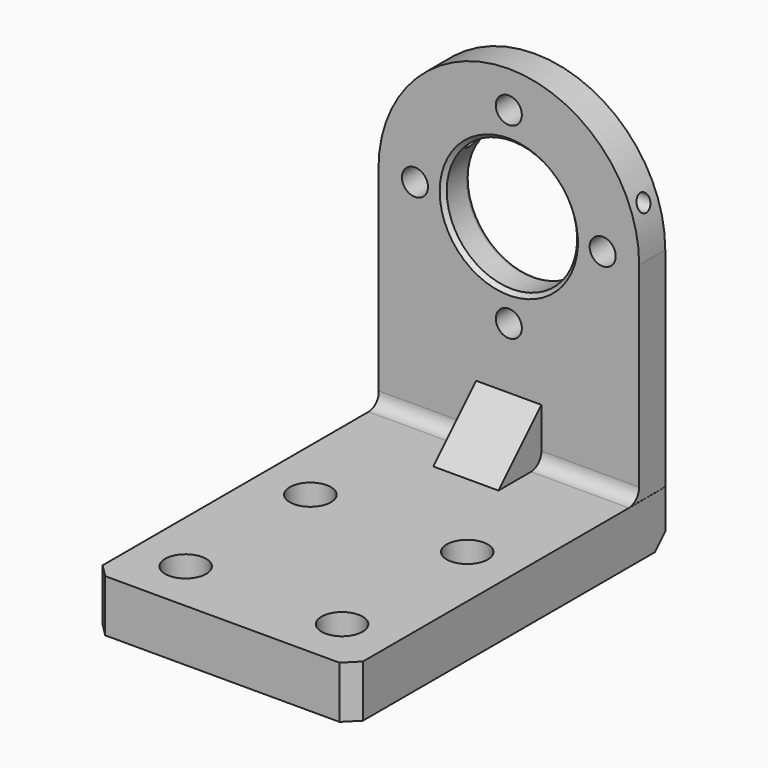
from build123d import *

# Parameters (mm, degrees)
F0_R           = 10
F1_DEPTH       = 25
F2_D           = 20
F3_W           = 199.7033953667
F3_H           = 40
F4_DEPTH       = 300
F6_DEPTH       = 25
F8_D           = 17.5
F8_CBORE_D     = 31.5
F8_CBORE_DEPTH = 20
F9_SIZE        = 10
F10_SIZE       = 3
F11_R          = 3
F12_R          = 10
F14_D          = 12.1
F15_SIZE       = 10


with BuildPart() as f1:
    # F0 (on Front) → F1 (new body)
    with BuildSketch(Plane.XZ):
        with BuildLine():
            Line((-100, 200), (-100, 0))
            Line((-100, 0), (100, 0))
            Line((100, 0), (100, 200))
            Line((100, 200), (82, 200))
            ThreePointArc((82, 200), (72, 190), (62, 200))
            Line((62, 200), (50, 200))
            ThreePointArc((50, 200), (0, 150), (-50, 200))
            Line((-50, 200), (-62, 200))
            ThreePointArc((-62, 200), (-72, 190), (-82, 200))
            Line((-82, 200), (-100, 200))
        make_face()
        with Locations((0, 128)):
            Circle(F0_R, mode=Mode.SUBTRACT)
        with BuildLine():
            ThreePointArc((100, 200), (0, 300), (-100, 200))
            Line((-100, 200), (-82, 200))
            ThreePointArc((-82, 200), (-72, 210), (-62, 200))
            Line((-62, 200), (-50, 200))
            ThreePointArc((-50, 200), (0, 250), (50, 200))
            Line((50, 200), (62, 200))
            ThreePointArc((62, 200), (72, 210), (82, 200))
            Line((82, 200), (100, 200))
        make_face()
        with Locations((0, 272)):
            Circle(F0_R, mode=Mode.SUBTRACT)
        with BuildLine():
            ThreePointArc((62, 200), (72, 190), (82, 200))
            Line((82, 200), (62, 200))
        make_face()
        with BuildLine():
            Line((62, 200), (82, 200))
            ThreePointArc((82, 200), (72, 210), (62, 200))
        make_face()
        with BuildLine():
            ThreePointArc((-62, 200), (-72, 210), (-82, 200))
            Line((-82, 200), (-62, 200))
        make_face()
        with BuildLine():
            Line((-62, 200), (-82, 200))
            ThreePointArc((-82, 200), (-72, 190), (-62, 200))
        make_face()
        with Locations((0, 272)):
            Circle(F0_R)
        with Locations((0, 128)):
            Circle(F0_R)
    extrude(amount=F1_DEPTH)

    # F2 (through all)
    with Locations(Plane(origin=(0, 0, 0), x_dir=(1, 0, 0), z_dir=(0, 1, 0))):
        with Locations((0, -272), (72, -200), (0, -128), (-72, -200)):
            Hole(F2_D / 2)

    # F3 (on Front) → F4 (join)
    with BuildSketch(Plane.XZ):
        with Locations((0.2531558275, 20)):
            Rectangle(F3_W, F3_H)
    extrude(amount=F4_DEPTH)

    # F5 (on Right) → F6 (join, symmetric)
    with BuildSketch(Plane.YZ):
        Polygon((-66.1523267627, 40), (-25, 40), (-25, 81.1523267627), align=None)
    extrude(amount=F6_DEPTH, both=True)

    # F8 (through all)
    with Locations(Plane.XY.offset(40)):
        with Locations((-59.6462091353, -140.7010122926), (60.1048535109, -140), (60.1048535109, -260), (-59.8951464891, -260)):
            CounterBoreHole(F8_D / 2, F8_CBORE_D / 2, F8_CBORE_DEPTH)

    # F9
    f9_edges = [f1.edges().sort_by_distance(p)[0] for p in [
        (-99.598542, -300, 20),
        (100.104854, -300, 20),
    ]]
    chamfer(f9_edges, length=F9_SIZE)

    # F10
    f10_edges = [f1.edges().sort_by_distance(p)[0] for p in [
        (50, -25, 200),
    ]]
    chamfer(f10_edges, length=F10_SIZE)

    # F11
    f11_edges = [f1.edges().sort_by_distance(p)[0] for p in [
        (50, 0, 200),
    ]]
    fillet(f11_edges, radius=F11_R)

    # F12
    f12_edges = [f1.edges().sort_by_distance(p)[0] for p in [
        (-62.299271, -25, 40),
        (62.5, -25, 40),
    ]]
    fillet(f12_edges, radius=F12_R)

    # F14 (through all)
    with Locations(Plane(origin=(-100, 0, 0), x_dir=(0, -1, 0), z_dir=(-1, 0, 0))):
        with Locations((12.9178790376, 234.974578023)):
            Hole(F14_D / 2)

    # F15
    f15_edges = [f1.edges().sort_by_distance(p)[0] for p in [
        (0.052427, 0, 0),
    ]]
    chamfer(f15_edges, length=F15_SIZE)


solid = f1.part
